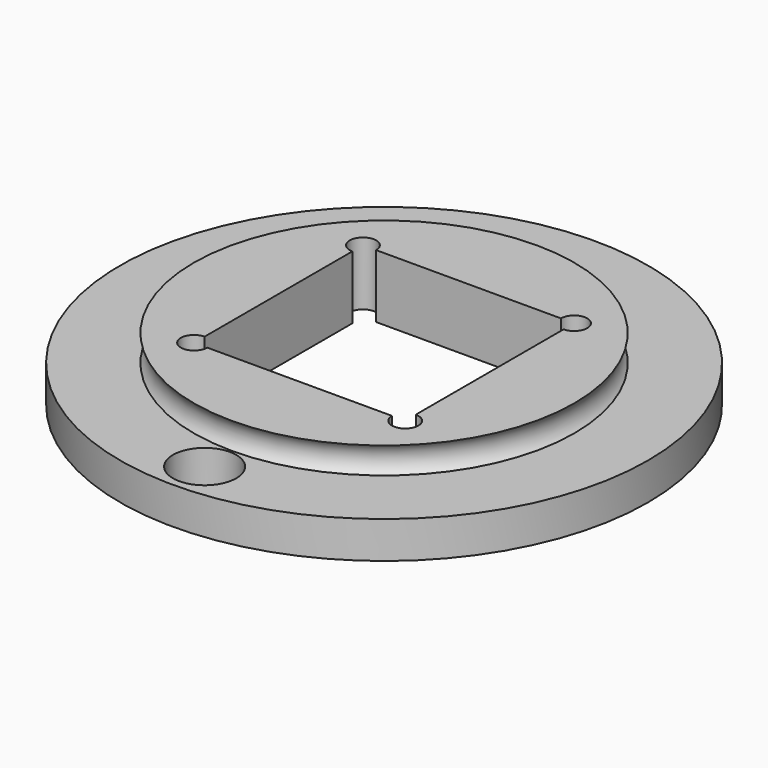
from build123d import *

# Parameters (mm, degrees)
CYLINDER014_R     = 1.2
CYLINDER014_DEPTH = 3
CYLINDER013_R     = 0.5
CYLINDER013_DEPTH = 10
ARRAY013_X_COUNT  = 2
ARRAY013_X_PITCH  = 8
ARRAY013_Y_COUNT  = 2
ARRAY013_Y_PITCH  = 8
BOX016_W          = 8
BOX016_H          = 8
BOX016_DEPTH      = 10
TORUS_R           = 0.7
CYLINDER012_R     = 7.7
CYLINDER012_DEPTH = 2.4
CYLINDER003_R     = 10
CYLINDER003_DEPTH = 1.4


with BuildPart() as magnet:
    # Cylinder014 → Cylinder014 (new body)
    with BuildSketch(Plane(origin=(0, -8.5, -1), x_dir=(1, 0, 0), z_dir=(0, 0, 1))):
        Circle(CYLINDER014_R)
    extrude(amount=CYLINDER014_DEPTH)


with BuildPart() as array013:
    # Cylinder013 → Cylinder013 (new body)
    with BuildSketch(Plane(origin=(4, 4, -2), x_dir=(1, 0, 0), z_dir=(0, 0, 1))):
        Circle(CYLINDER013_R)
    extrude(amount=CYLINDER013_DEPTH)

    # Array013 X: Array013 ×2


with BuildPart() as array013_1:
    add(array013.part)
    with Locations(*[(-i * ARRAY013_X_PITCH, 0, 0) for i in range(1, ARRAY013_X_COUNT)]):
        add(array013.part)

    # Array013 Y: Array013 ×2


with BuildPart() as array013_2:
    add(array013_1.part)
    with Locations(*[(0, -i * ARRAY013_Y_PITCH, 0) for i in range(1, ARRAY013_Y_COUNT)]):
        add(array013_1.part)


with BuildPart() as obj1:
    # Box016 → Box016 (new body)
    with BuildSketch(Plane(origin=(-4, -4, -2), x_dir=(1, 0, 0), z_dir=(0, 0, 1))):
        with Locations((4, 4)):
            Rectangle(BOX016_W, BOX016_H)
    extrude(amount=BOX016_DEPTH)


with BuildPart() as torus:
    # Torus → Torus (revolve)
    with BuildSketch(Plane(origin=(0, 0, 1.9), x_dir=(1, 0, 0), z_dir=(0, -1, 0))):
        with Locations((7.7, 0)):
            Circle(TORUS_R)
    revolve(axis=Axis((0, 0, 1.9), (0, 0, 1)))


with BuildPart() as cut017:
    # Cylinder012 → Cylinder012 (new body)
    with BuildSketch(Plane.XY):
        Circle(CYLINDER012_R)
    extrude(amount=CYLINDER012_DEPTH)

    # Cut017: cut Torus
    add(torus.part, mode=Mode.SUBTRACT)


with BuildPart() as magnethalter:
    # Cylinder003 → Cylinder003 (new body)
    with BuildSketch(Plane.XY):
        Circle(CYLINDER003_R)
    extrude(amount=CYLINDER003_DEPTH)

    # Fusion003: union Cut017
    add(cut017.part)

    # Cut018: cut obj1
    add(obj1.part, mode=Mode.SUBTRACT)

    # Cut019: cut Array013
    add(array013_2.part, mode=Mode.SUBTRACT)

    # Cut020: cut Magnet
    add(magnet.part, mode=Mode.SUBTRACT)


solid = magnethalter.part
